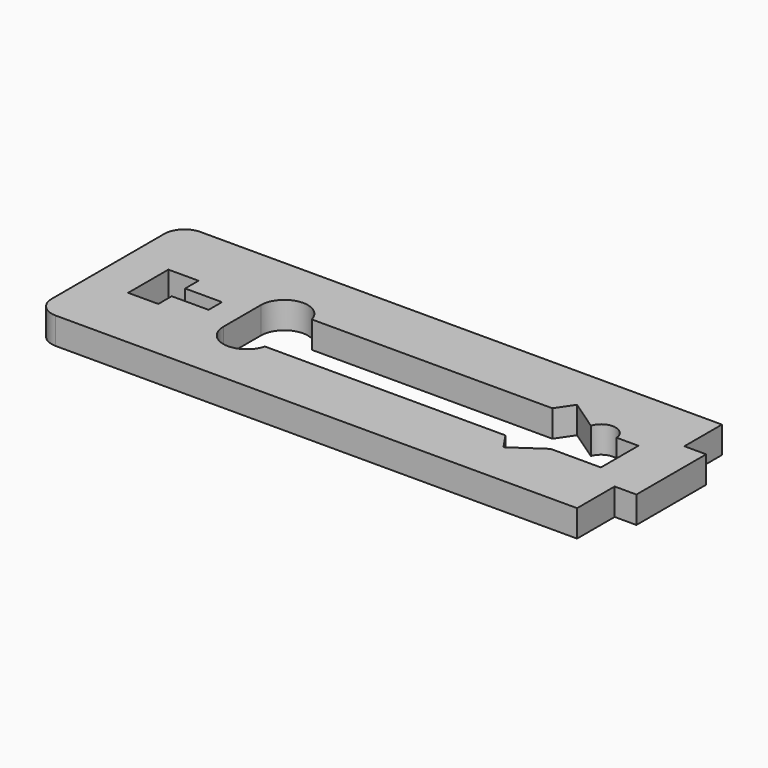
from build123d import *

# Parameters (mm, degrees)
F0_W     = 1066.8
F0_H     = 342.9
F1_DEPTH = 50.8
F2_R     = 38.1
F3_W     = 41.275
F3_H     = 88.9
F4_DEPTH = 50.8
F7_DEPTH = 50.8
F8_DEPTH = 50.8


with BuildPart() as f1:
    # F0 (on Top) → F1 (new body)
    with BuildSketch(Plane.XY):
        Rectangle(F0_W, F0_H)
    extrude(amount=F1_DEPTH)

    # F2
    f2_edges = [f1.edges().sort_by_distance(p)[0] for p in [
        (-533.4, 171.45, 25.4),
        (-533.4, -171.45, 25.4),
        (533.4, 171.45, 25.4),
        (533.4, -171.45, 25.4),
    ]]
    fillet(f2_edges, radius=F2_R)

    # F3 (on face) → F4 (cut)
    with BuildSketch(Plane.XY.offset(50.8)):
        with Locations((512.7625, 127)):
            Rectangle(F3_W, F3_H)
        with Locations((512.7625, -127)):
            Rectangle(F3_W, F3_H)
    extrude(amount=-F4_DEPTH, mode=Mode.SUBTRACT)

    # F6 (on face) → F7 (cut)
    with BuildSketch(Plane.XY.offset(50.8)):
        with BuildLine():
            ThreePointArc((-279.4, 44.45127), (-234.95, 0.00127), (-190.5, 44.45127))
            ThreePointArc((-190.5, 44.45127), (-190.854197, 50.05151), (-191.911145, 55.5625))
            ThreePointArc((-191.911145, 55.5625), (-240.55024, 88.547073), (-279.4, 44.45127))
        make_face()
        with BuildLine():
            ThreePointArc((-191.911145, 55.5625), (-190.854197, 50.05151), (-190.5, 44.45127))
            ThreePointArc((-190.5, 44.45127), (-234.95, 0.00127), (-279.4, 44.45127))
            Line((-279.4, 44.45127), (-279.4, -44.45127))
            ThreePointArc((-279.4, -44.45127), (-234.95, -0.00127), (-190.5, -44.45127))
            ThreePointArc((-190.5, -44.45127), (-190.854197, -50.05151), (-191.911145, -55.5625))
            Line((-191.911145, -55.5625), (263.731644, -55.5625))
            Line((263.731644, -55.5625), (285.221681, -87.023401))
            Line((285.221681, -87.023401), (342.9, -47.625))
            Line((342.9, -47.625), (438.15, -47.625))
            Line((438.15, -47.625), (438.15, 41.275))
            Line((438.15, 41.275), (396.875, 41.275))
            ThreePointArc((396.875, 41.275), (372.479858, 66.485039), (342.9, 47.625))
            Line((342.9, 47.625), (285.221681, 87.023401))
            Line((285.221681, 87.023401), (263.731644, 55.5625))
            Line((263.731644, 55.5625), (-191.911145, 55.5625))
        make_face()
        with BuildLine():
            ThreePointArc((-190.5, -44.45127), (-234.95, -0.00127), (-279.4, -44.45127))
            ThreePointArc((-279.4, -44.45127), (-240.55024, -88.547073), (-191.911145, -55.5625))
            ThreePointArc((-191.911145, -55.5625), (-190.854197, -50.05151), (-190.5, -44.45127))
        make_face()
    extrude(amount=-F7_DEPTH, mode=Mode.SUBTRACT)

    # F5 (on face) → F8 (cut)
    with BuildSketch(Plane.XY.offset(50.8)):
        Polygon((-400.05, 47.625), (-457.2, 47.625), (-457.2, -47.625), (-400.05, -47.625), (-400.05, -15.875), (-330.2, -15.875), (-330.2, 15.875), (-400.05, 15.875), align=None)
    extrude(amount=-F8_DEPTH, mode=Mode.SUBTRACT)


solid = f1.part
